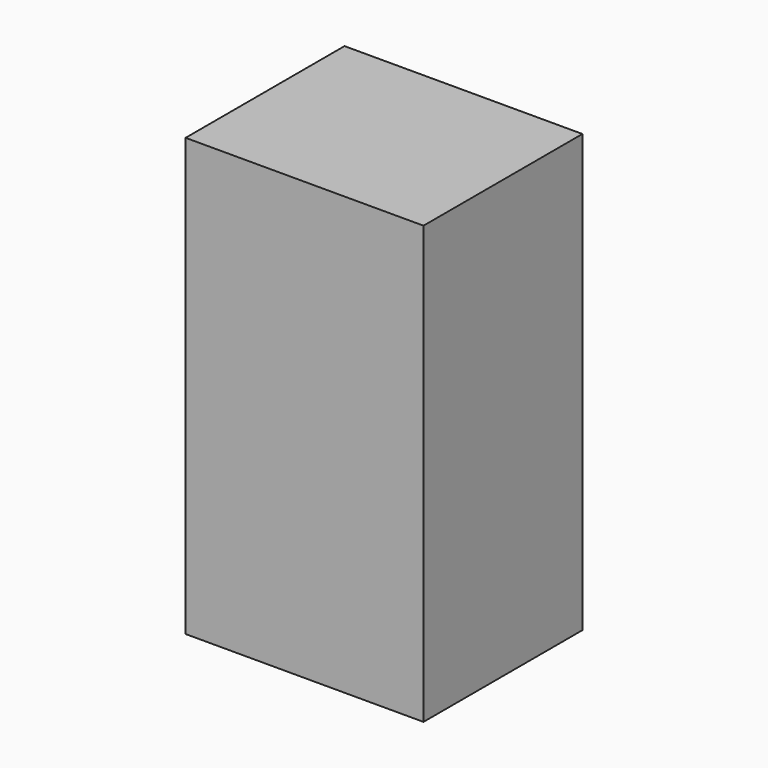
from build123d import *

# Parameters (mm, degrees)
F0_W      = 60.837094
F0_H      = 111.719028
F1_DEPTH  = 50.8
F2_W      = 53.831614
F2_H      = 104.713552
F3_DEPTH  = 48.26
F4_W      = 52.05747
F4_H      = 7.260799
F4_W_2    = 54.450646
F4_H_2    = 10.926998
F4_H_3    = 9.054981
F5_DEPTH  = 48.26
F5_FACE_W = 48.26
F5_FACE_H = 7.2608
F6_DEPTH  = 5.08


with BuildPart() as f1:
    # F0 (on Front) → F1 (new body)
    with BuildSketch(Plane.XZ):
        Rectangle(F0_W, F0_H)
    extrude(amount=F1_DEPTH)

    # F2 (on Front) → F3 (cut)
    with BuildSketch(Plane.XZ):
        Rectangle(F2_W, F2_H)
    extrude(amount=F3_DEPTH, mode=Mode.SUBTRACT)

    # F4 (on Front) → F5 (join)
    with BuildSketch(Plane.XZ):
        with Locations((-1.728615, 38.881942)):
            Rectangle(F4_W, F4_H)
        Rectangle(F4_W_2, F4_H_2)
        with Locations((0, -36.190945)):
            Rectangle(F4_W_2, F4_H_3)
    extrude(amount=F5_DEPTH)

    # F5_face (on face) → F6 (join)
    with BuildSketch(Plane(origin=(24.30012, -24.13, 38.881943), x_dir=(0, 1, 0), z_dir=(1, 0, 0))):
        Rectangle(F5_FACE_W, F5_FACE_H)
    extrude(amount=F6_DEPTH)


solid = f1.part
